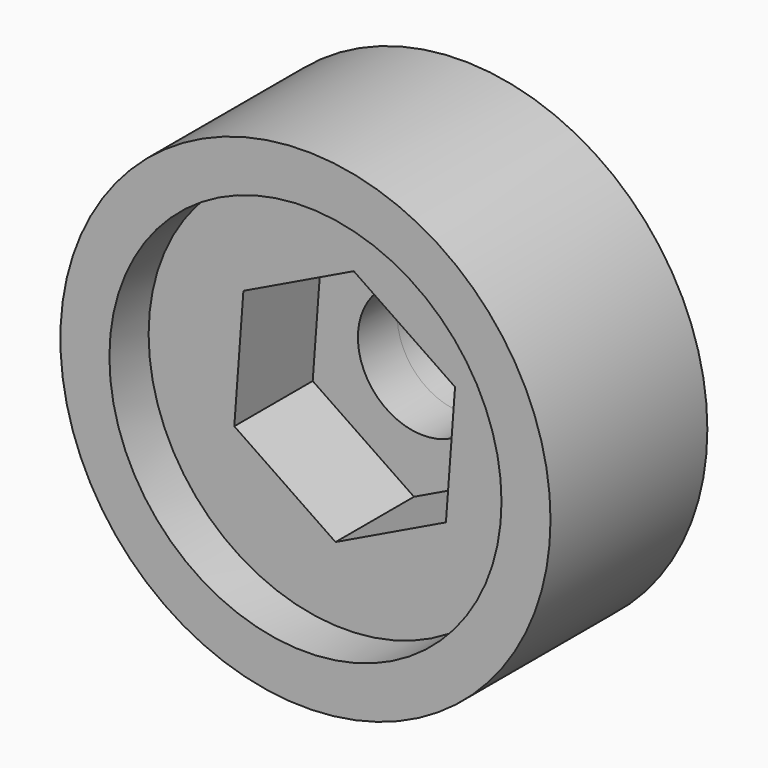
from build123d import *

# Parameters (mm, degrees)
F0_R     = 12.7
F0_R_2   = 10.16
F1_DEPTH = 10.16
F0_R_3   = 8.4455
F2_DEPTH = 7.62
F3_DEPTH = 7.62
F4_DEPTH = 3.175
F0_R_4   = 3.3782
F5_DEPTH = 3.175
F6_DEPTH = 2.54
F7_SIZE  = 0.762


with BuildPart() as f1:
    # F0 (on Front) → F1 (new body)
    with BuildSketch(Plane.XZ):
        Circle(F0_R)
        Circle(F0_R_2, mode=Mode.SUBTRACT)
    extrude(amount=F1_DEPTH)

    # F0 (on Front) → F2 (join)
    with BuildSketch(Plane.XZ):
        Circle(F0_R_2)
        Circle(F0_R_3, mode=Mode.SUBTRACT)
    extrude(amount=F2_DEPTH)

    # F0 (on Front) → F3 (join)
    with BuildSketch(Plane.XZ):
        Circle(F0_R_3)
        Polygon((5.720142, 2.756829), (5.247555, -3.575374), (-0.472587, -6.332203), (-5.720142, -2.756829), (-5.247555, 3.575374), (0.472587, 6.332203), align=None, mode=Mode.SUBTRACT)
    extrude(amount=F3_DEPTH)

    # F0 (on Front) → F4 (join)
    with BuildSketch(Plane.XZ):
        Circle(F0_R_3)
        Polygon((5.720142, 2.756829), (5.247555, -3.575374), (-0.472587, -6.332203), (-5.720142, -2.756829), (-5.247555, 3.575374), (0.472587, 6.332203), align=None, mode=Mode.SUBTRACT)
    extrude(amount=-F4_DEPTH)

    # F7
    f7_edges = [f1.edges().sort_by_distance(p)[0] for p in [
        (-8.4455, 3.175, 0),
    ]]
    chamfer(f7_edges, length=F7_SIZE)


with BuildPart() as f5:
    # F0 (on Front) → F5 (new body)
    with BuildSketch(Plane.XZ):
        Polygon((-0.472587, -6.332203), (5.247555, -3.575374), (5.720142, 2.756829), (0.472587, 6.332203), (-5.247555, 3.575374), (-5.720142, -2.756829), align=None)
        Circle(F0_R_4, mode=Mode.SUBTRACT)
    extrude(amount=-F5_DEPTH)


with BuildPart() as f6:
    # F0 (on Front) → F6 (new body)
    with BuildSketch(Plane.XZ):
        Polygon((-0.472587, -6.332203), (5.247555, -3.575374), (5.720142, 2.756829), (0.472587, 6.332203), (-5.247555, 3.575374), (-5.720142, -2.756829), align=None)
        Circle(F0_R_4, mode=Mode.SUBTRACT)
    extrude(amount=F6_DEPTH)


solid = Compound([f1.part, f5.part, f6.part])
